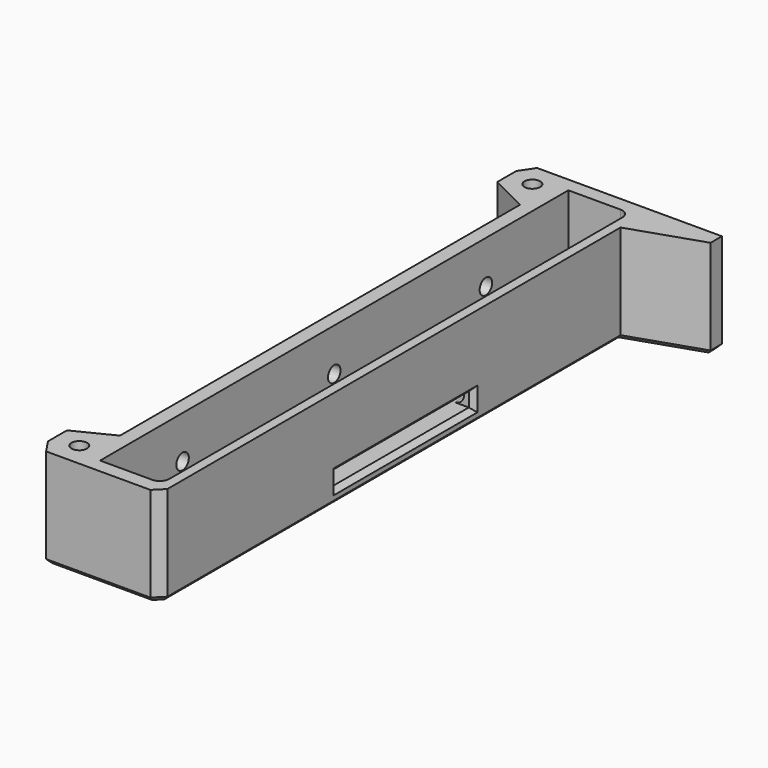
from build123d import *

# Parameters (mm, degrees)
SKETCH_R        = 1.65
PAD_DEPTH       = 21
SKETCH001_W     = 13
SKETCH001_H     = 123.5
POCKET_DEPTH    = 18
SKETCH002_W     = 36
SKETCH002_H     = 3
POCKET001_DEPTH = 2
SKETCH003_R     = 1.95
POCKET002_DEPTH = 4
SKETCH004_R     = 1.65
POCKET003_DEPTH = 3
SKETCH005_W     = 5.15
SKETCH005_H     = 10.15
POCKET004_DEPTH = 3
CHAMFER_SIZE    = 2
CHAMFER001_SIZE = 0.4
CHAMFER002_SIZE = 1
FILLET_R        = 2
CHAMFER003_SIZE = 0.4
SKETCH032_R     = 2.5
PAD007_DEPTH    = 4


with BuildPart() as part:
    # Sketch → Pad (new body)
    with BuildSketch(Plane.XY):
        Polygon((-9, 64.75), (30, 64.75), (30, 61.75), (15, 56.75), (15, -64.75), (-9, -64.75), (-11, -61.75), (-11, -56.75), (-3, -52.75), (-3, 52.75), (-11, 56.75), (-11, 61.75), align=None)
        with Locations((-6, 59.75)):
            Circle(SKETCH_R, mode=Mode.SUBTRACT)
        with Locations((-6, -59.75)):
            Circle(SKETCH_R, mode=Mode.SUBTRACT)
    extrude(amount=PAD_DEPTH)

    # Sketch001 (on Face16 of Pad) → Pocket (cut)
    with BuildSketch(Plane.XY.offset(21)):
        with Locations((6.5, 0)):
            Rectangle(SKETCH001_W, SKETCH001_H)
    extrude(amount=-POCKET_DEPTH, mode=Mode.SUBTRACT)

    # Sketch002 (on Face8 of Pocket) → Pocket001 (cut)
    with BuildSketch(Plane.YZ.offset(15)):
        with Locations((0, 4.5)):
            Rectangle(SKETCH002_W, SKETCH002_H)
    extrude(amount=-POCKET001_DEPTH, mode=Mode.SUBTRACT)

    # Sketch003 (on Face1 of Pocket001) → Pocket002 (cut)
    with BuildSketch(Plane(origin=(0, 64.75, 0), x_dir=(-1, 0, 0), z_dir=(0, 1, 0))):
        with Locations((-22, 12)):
            Circle(SKETCH003_R)
    extrude(amount=-POCKET002_DEPTH, mode=Mode.SUBTRACT)

    # Sketch004 (on Face14 of Pocket002) → Pocket003 (cut)
    with BuildSketch(Plane(origin=(-3, 0, 0), x_dir=(0, -1, 0), z_dir=(-1, 0, 0))):
        with Locations((0, 12)):
            Circle(SKETCH004_R)
        with Locations((-40, 12)):
            Circle(SKETCH004_R)
        with Locations((40, 12)):
            Circle(SKETCH004_R)
    extrude(amount=-POCKET003_DEPTH, mode=Mode.SUBTRACT)

    # Sketch005 (on Face30 of Pocket003) → Pocket004 (cut)
    with BuildSketch(Plane.XY.offset(3)):
        with Locations((2.575, 56.675)):
            Rectangle(SKETCH005_W, SKETCH005_H)
        with Locations((2.575, -56.675)):
            Rectangle(SKETCH005_W, SKETCH005_H)
    extrude(amount=-POCKET004_DEPTH, mode=Mode.SUBTRACT)

    # Chamfer
    chamfer_edges = [part.edges().sort_by_distance(p)[0] for p in [
        (15, -64.75, 10.5),
    ]]
    chamfer(chamfer_edges, length=CHAMFER_SIZE)

    # Chamfer001
    chamfer001_edges = [part.edges().sort_by_distance(p)[0] for p in [
        (-3, 41.65, 12),
        (-3, 1.65, 12),
        (-3, -38.35, 12),
        (23.95, 64.75, 12),
        (-7.65, -59.75, 0),
        (-7.65, 59.75, 0),
        (2.575, 61.75, 0),
        (5.15, 56.675, 0),
        (2.575, 51.6, 0),
        (0, 56.675, 0),
        (2.575, -51.6, 0),
        (5.15, -56.675, 0),
        (2.575, -61.75, 0),
        (0, -56.675, 0),
    ]]
    chamfer(chamfer001_edges, length=CHAMFER001_SIZE)

    # Chamfer002
    chamfer002_edges = [part.edges().sort_by_distance(p)[0] for p in [
        (10.5, 64.75, 0),
        (30, 63.25, 0),
        (22.5, 59.25, 0),
        (15, -3, 0),
        (-10, 63.25, 0),
        (-11, 59.25, 0),
        (-7, 54.75, 0),
        (-3, 0, 0),
        (14, -63.75, 0),
        (2, -64.75, 0),
        (-10, -63.25, 0),
        (-11, -59.25, 0),
        (-7, -54.75, 0),
        (15, -18, 4.5),
        (15, 0, 6),
        (15, 0, 3),
        (15, 18, 4.5),
    ]]
    chamfer(chamfer002_edges, length=CHAMFER002_SIZE)

    # Fillet
    fillet_edges = [part.edges().sort_by_distance(p)[0] for p in [
        (13, -61.75, 12),
        (13, -39.875, 3),
        (13, 39.875, 3),
        (13, 61.75, 12),
    ]]
    fillet(fillet_edges, radius=FILLET_R)

    # Chamfer003
    chamfer003_edges = [part.edges().sort_by_distance(p)[0] for p in [
        (5.15, 56.675, 3),
        (2.575, 51.6, 3),
        (2.575, -51.6, 3),
        (5.15, -56.675, 3),
    ]]
    chamfer(chamfer003_edges, length=CHAMFER003_SIZE)

    # Sketch032 (on Face32 of Clone) → Pad007 (new body)
    with BuildSketch(Plane(origin=(0, 64.75, 0), x_dir=(-1, 0, 0), z_dir=(0, 1, 0))):
        with Locations((-22, 12)):
            Circle(SKETCH032_R)
    extrude(amount=-PAD007_DEPTH)


with BuildPart() as part_1:
    # Body003 placement: moved
    add(part.part.moved(Location((0, 0, -21))))


solid = part_1.part
